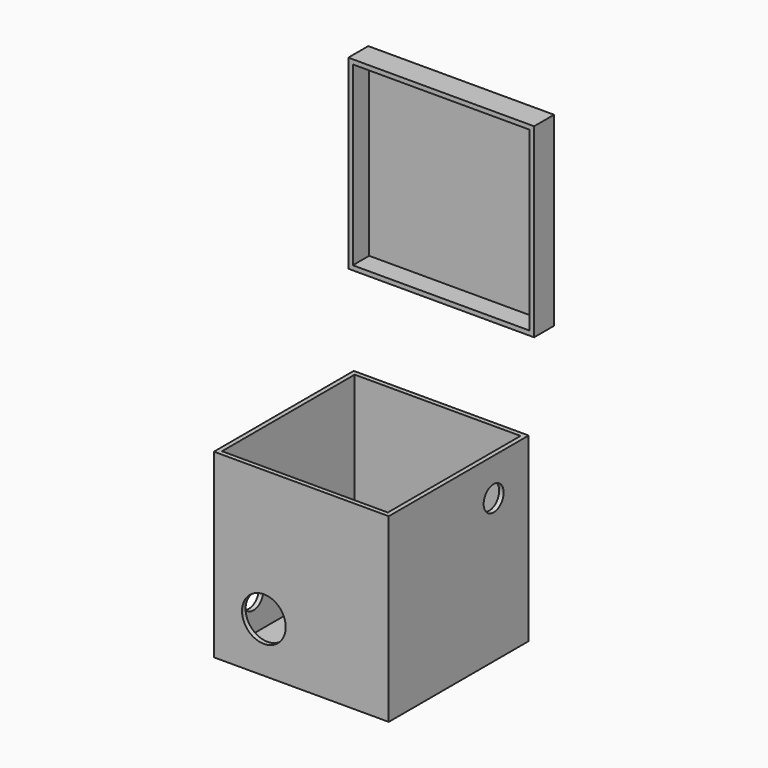
from build123d import *

# Parameters (mm, degrees)
F0_W      = 177.8
F0_H      = 184.15
F1_DEPTH  = 177.8
F2_T      = -4.572
F4_D      = 44.45
F4_DEPTH  = 12.7
F4_TIP    = 13.3541272579
F6_D      = 25.4
F6_DEPTH  = 12.7
F6_TIP    = 7.6309298617
F8_W      = 188.976
F8_H      = 188.976
F9_DEPTH  = 25.4
F10_T     = -4.572
F12_D     = 25.4
F12_DEPTH = 12.7
F12_TIP   = 7.6309298617


with BuildPart() as f1:
    # F0 (on Front) → F1 (new body)
    with BuildSketch(Plane.XZ):
        with Locations((13.3096763432, 15.7974687822)):
            Rectangle(F0_W, F0_H)
    extrude(amount=F1_DEPTH)

    # F2
    f2_openings = [f1.faces().sort_by_distance(p)[0] for p in [
        (13.309676, -88.9, 107.872469),
    ]]
    offset(amount=F2_T, openings=f2_openings)

    # F4
    with Locations(Plane.XZ.offset(177.8)):
        with Locations((-24.7903236568, -25.4775312178)):
            Hole(F4_D / 2, depth=F4_DEPTH)
            with Locations((0, 0, -(F4_DEPTH + F4_TIP / 2))):  # 118° drill point
                Cone(0, F4_D / 2, F4_TIP, mode=Mode.SUBTRACT)

    # F6
    with Locations(Plane.YZ.offset(102.2096763432)):
        with Locations((-44.45, 69.7724687822)):
            Hole(F6_D / 2, depth=F6_DEPTH)
            with Locations((0, 0, -(F6_DEPTH + F6_TIP / 2))):  # 118° drill point
                Cone(0, F6_D / 2, F6_TIP, mode=Mode.SUBTRACT)

    # F12
    with Locations(Plane(origin=(-75.5903236568, 0, 0), x_dir=(0, -1, 0), z_dir=(-1, 0, 0))):
        with Locations((133.35, -38.1775312178)):
            Hole(F12_D / 2, depth=F12_DEPTH)
            with Locations((0, 0, -(F12_DEPTH + F12_TIP / 2))):  # 118° drill point
                Cone(0, F12_D / 2, F12_TIP, mode=Mode.SUBTRACT)


with BuildPart() as f9:
    # F8 (on offset) → F9 (new body)
    with BuildSketch(Plane(origin=(0, 25.4, 0), x_dir=(-1, 0, 0), z_dir=(0, 1, 0))):
        with Locations((-13.3096763432, 292.035728693)):
            Rectangle(F8_W, F8_H)
    extrude(amount=-F9_DEPTH)

    # F10
    f10_openings = [f9.faces().sort_by_distance(p)[0] for p in [
        (13.309676, 0, 292.035729),
    ]]
    offset(amount=F10_T, openings=f10_openings)


solid = Compound([f1.part, f9.part])
